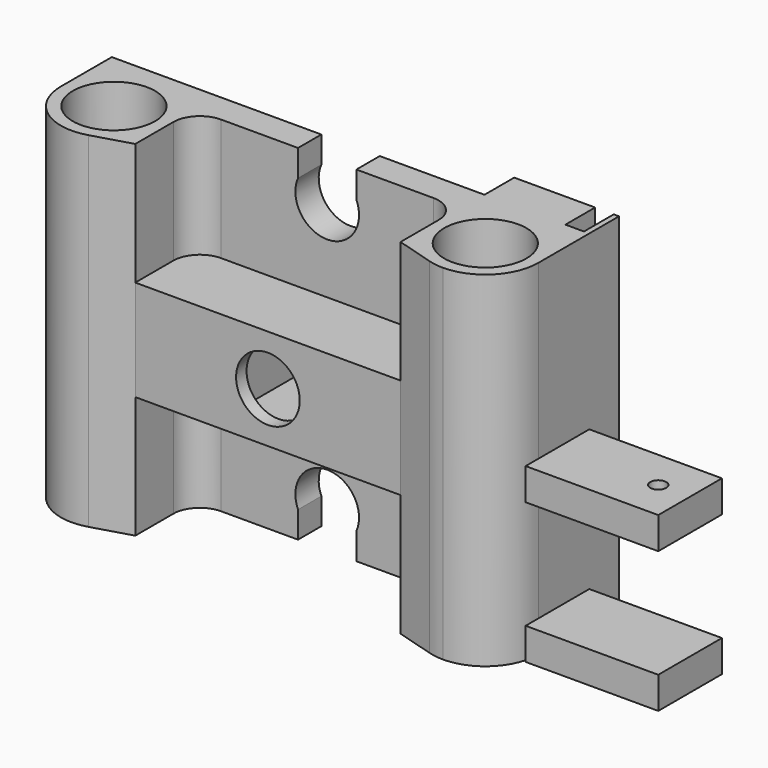
from build123d import *

# Parameters (mm, degrees)
F0_R      = 7.75
F1_DEPTH  = 65
F2_R      = 6
F3_DEPTH  = 25
F4_W      = 15
F4_H      = 6
F5_DEPTH  = 25
F6_R      = 1.5
F7_DEPTH  = 25
F8_R      = 3.75
F8_R_2    = 1.45
F8_R_3    = 5.5
F9_DEPTH  = 7
F10_R     = 1.5
F11_DEPTH = 5
F2_W      = 53
F2_H      = 19
F2_W_2    = 19
F2_H_2    = 17
F12_DEPTH = 19.47049
F13_DEPTH = 17


with BuildPart() as f1:
    # F0 (on Top) → F1 (new body)
    with BuildSketch(Plane.XY):
        with BuildLine():
            Line((25, -7.470489), (32.163705, -9.589339))
            ThreePointArc((32.163705, -9.589339), (33.567065, -9.896802), (35, -10))
            ThreePointArc((35, -10), (42.071068, -7.071068), (45, 0))
            Line((45, 0), (45, 12))
            Line((45, 12), (0, 12))
            Line((0, 12), (-45, 12))
            Line((-45, 12), (-45, 0))
            ThreePointArc((-45, 0), (-40.984858, -8.011334), (-32.163705, -9.589339))
            Line((-32.163705, -9.589339), (-25, -7.470489))
            Line((-25, -7.470489), (-25, 0))
            Line((-25, 0), (-25, 1.5))
            ThreePointArc((-25, 1.5), (-23.535534, 5.035534), (-20, 6.5))
            Line((-20, 6.5), (20, 6.5))
            ThreePointArc((20, 6.5), (23.535534, 5.035534), (25, 1.5))
            Line((25, 1.5), (25, 0))
            Line((25, 0), (25, -7.470489))
        make_face()
        with Locations((-35, 0)):
            Circle(F0_R, mode=Mode.SUBTRACT)
        with Locations((35, 0)):
            Circle(F0_R, mode=Mode.SUBTRACT)
    extrude(amount=F1_DEPTH)

    # F2 (on face) → F3 (cut)
    with BuildSketch(Plane(origin=(0, 12, 0), x_dir=(-1, 0, 0), z_dir=(0, 1, 0))):
        with BuildLine():
            Line((-5.5, 65), (-5.5, 60))
            ThreePointArc((-5.5, 60), (0, 51.602084), (5.5, 60))
            Line((5.5, 60), (5.5, 65))
            Line((5.5, 65), (-5.5, 65))
        make_face()
        with Locations((0, 32.5)):
            Circle(F2_R)
        with BuildLine():
            Line((-5.5, 5), (-5.5, 0))
            Line((-5.5, 0), (5.5, 0))
            Line((5.5, 0), (5.5, 5))
            ThreePointArc((5.5, 5), (0, 13.397916), (-5.5, 5))
        make_face()
    extrude(amount=-F3_DEPTH, mode=Mode.SUBTRACT)

    # F4 (on face) → F5 (join)
    with BuildSketch(Plane.YZ.offset(45)):
        with Locations((4.5, 29.5)):
            Rectangle(F4_W, F4_H)
        with Locations((4.5, 3)):
            Rectangle(F4_W, F4_H)
    extrude(amount=F5_DEPTH)

    # F6 (on face) → F7 (cut)
    with BuildSketch(Plane(origin=(0, 0, 26.5), x_dir=(1, 0, 0), z_dir=(0, 0, -1))):
        with Locations((64, -4.5)):
            Circle(F6_R)
    extrude(amount=-F7_DEPTH, mode=Mode.SUBTRACT)

    # F8 (on face) → F9 (join)
    with BuildSketch(Plane(origin=(0, 12, 0), x_dir=(-1, 0, 0), z_dir=(0, 1, 0))):
        with Locations((31, 32.5)):
            Circle(F8_R)
        with Locations((31, 32.5)):
            Circle(F8_R_2, mode=Mode.SUBTRACT)
        with BuildLine():
            ThreePointArc((-35.999405, 56.75), (-30.343356, 43.092935), (-44, 48.75))
            Line((-44, 48.75), (-44, 13.75))
            ThreePointArc((-44, 13.75), (-30.343146, 19.406854), (-36, 5.75))
            Line((-36, 5.75), (-38.5, 5.75))
            ThreePointArc((-38.5, 5.75), (-39.914214, 5.164214), (-40.5, 3.75))
            Line((-40.5, 3.75), (-40.5, 0))
            Line((-40.5, 0), (-25.25, 0))
            Line((-25.25, 0), (-25.25, 65))
            Line((-25.25, 65), (-40.5, 65))
            Line((-40.5, 65), (-40.5, 58.750074))
            ThreePointArc((-40.5, 58.750074), (-39.914235, 57.335882), (-38.50006, 56.750074))
            Line((-38.50006, 56.750074), (-35.999405, 56.75))
        make_face()
        Polygon((-44, 65), (-45, 65), (-45, 32.5), (-45, 26.5), (-45, 6), (-45, 0), (-44, 0), (-44, 13.75), (-44, 48.75), align=None)
        with Locations((-36, 13.75)):
            Circle(F8_R_3)
        with BuildLine():
            ThreePointArc((-30.5, 48.75), (-36, 54.25), (-41.5, 48.75))
            ThreePointArc((-41.5, 48.75), (-36, 43.25), (-30.5, 48.75))
        make_face()
    extrude(amount=F9_DEPTH)

    # F10 (on face) → F11 (cut)
    with BuildSketch(Plane(origin=(-45, 0, 0), x_dir=(0, -1, 0), z_dir=(-1, 0, 0))):
        with Locations((-6, 26.5)):
            Circle(F10_R)
        with Locations((-6, 38.5)):
            Circle(F10_R)
    extrude(amount=-F11_DEPTH, mode=Mode.SUBTRACT)

    # F2 (on face) → F12 (join)
    with BuildSketch(Plane(origin=(0, 12, 0), x_dir=(-1, 0, 0), z_dir=(0, 1, 0))):
        with Locations((0, 32.5)):
            Rectangle(F2_W, F2_H)
        with Locations((0, 32.5)):
            Rectangle(F2_W_2, F2_H_2, mode=Mode.SUBTRACT)
        with Locations((0, 32.5)):
            Rectangle(F2_W_2, F2_H_2)
        with Locations((0, 32.5)):
            Circle(F2_R, mode=Mode.SUBTRACT)
    extrude(amount=-F12_DEPTH)

    # F2 (on face) → F13 (cut)
    with BuildSketch(Plane(origin=(0, 12, 0), x_dir=(-1, 0, 0), z_dir=(0, 1, 0))):
        with Locations((0, 32.5)):
            Rectangle(F2_W_2, F2_H_2)
        with Locations((0, 32.5)):
            Circle(F2_R, mode=Mode.SUBTRACT)
    extrude(amount=-F13_DEPTH, mode=Mode.SUBTRACT)


solid = f1.part
